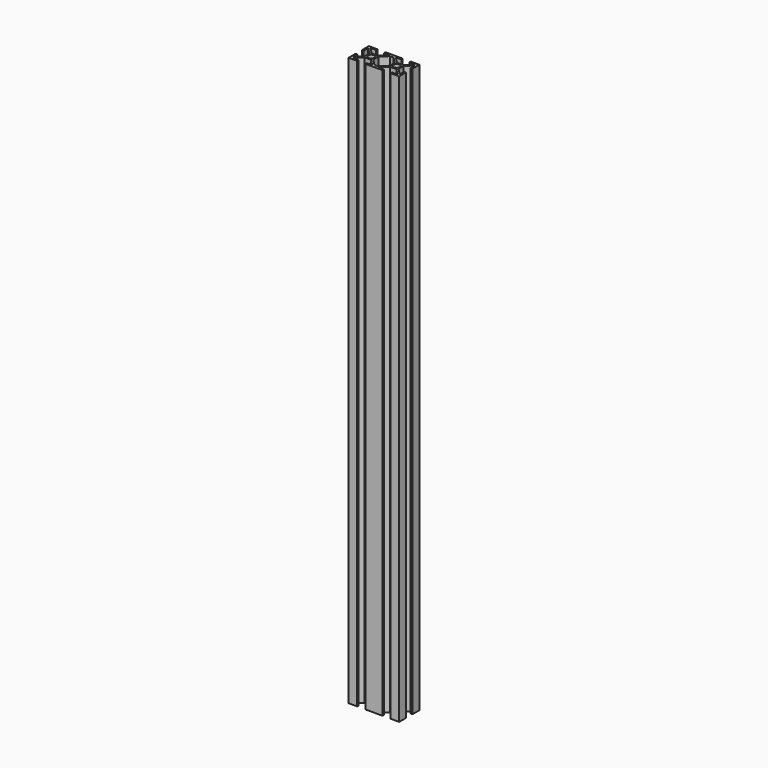
from build123d import *

# Parameters (mm, degrees)
F0_R     = 2.5
F1_DEPTH = 450


with BuildPart() as f1:
    # F0 (on Top) → F1 (new body)
    with BuildSketch(Plane.XY):
        Polygon((6.5, 7.616114), (1.4, 2.389949), (1.4, 6.8), (0, 6.8), (0, 0), (6.8, 0), (6.8, 1.4), (2.389949, 1.4), (7.489949, 6.5), (12.510051, 6.5), (17.610051, 1.4), (13.2, 1.4), (13.2, 0), (20, 0), (26.8, 0), (26.8, 1.4), (22.389949, 1.4), (27.489949, 6.5), (32.510051, 6.5), (37.610051, 1.4), (33.2, 1.4), (33.2, 0), (40, 0), (40, 6.8), (38.6, 6.8), (38.6, 2.389949), (33.5, 7.489949), (33.5, 12.510051), (38.6, 17.610051), (38.6, 13.2), (40, 13.2), (40, 20), (33.2, 20), (33.2, 18.6), (37.610051, 18.6), (32.510051, 13.5), (27.489949, 13.5), (22.389949, 18.6), (26.8, 18.6), (26.8, 20), (20, 20), (13.2, 20), (13.2, 18.6), (17.610051, 18.6), (12.510051, 13.5), (7.489949, 13.5), (2.389949, 18.6), (6.8, 18.6), (6.8, 20), (0, 20), (0, 13.2), (1.4, 13.2), (1.4, 17.610051), (6.5, 12.510051), align=None)
        with Locations((10, 10)):
            Circle(F0_R, mode=Mode.SUBTRACT)
        Polygon((13.5, 7.489949), (13.5, 12.510051), (18.6, 17.610051), (21.4, 17.610051), (26.5, 12.510051), (26.5, 7.616114), (21.4, 2.389949), (18.6, 2.389949), align=None, mode=Mode.SUBTRACT)
        with Locations((30, 10)):
            Circle(F0_R, mode=Mode.SUBTRACT)
    extrude(amount=F1_DEPTH)


solid = f1.part
